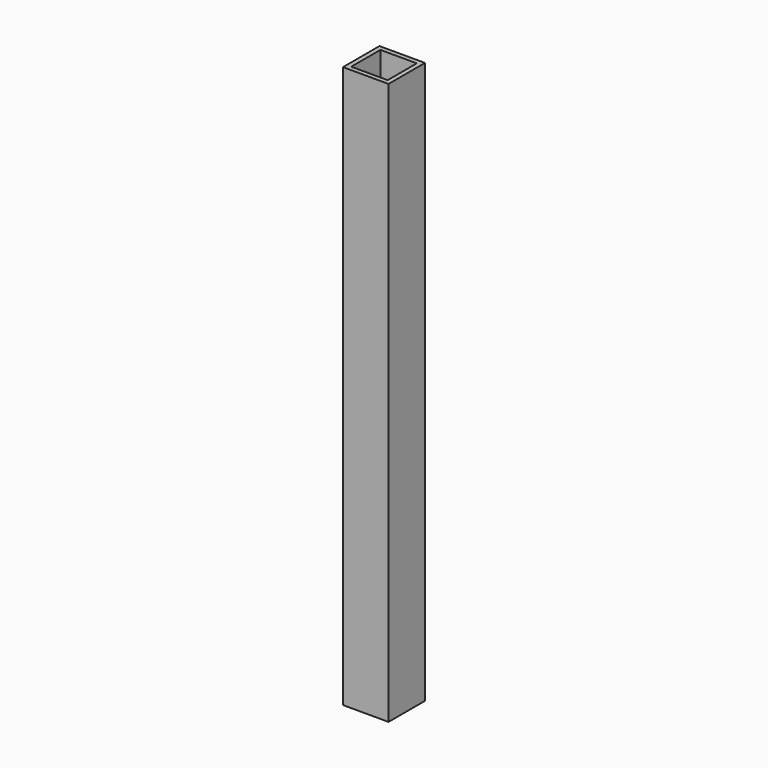
from build123d import *

# Parameters (mm, degrees)
SKETCH_W   = 15
SKETCH_H   = 15
SKETCH_W_2 = 12
SKETCH_H_2 = 12
PAD_DEPTH  = 185


with BuildPart() as part:
    # Sketch → Pad (new body)
    with BuildSketch(Plane.XY):
        Rectangle(SKETCH_W, SKETCH_H)
        Rectangle(SKETCH_W_2, SKETCH_H_2, mode=Mode.SUBTRACT)
    extrude(amount=PAD_DEPTH)


solid = part.part
